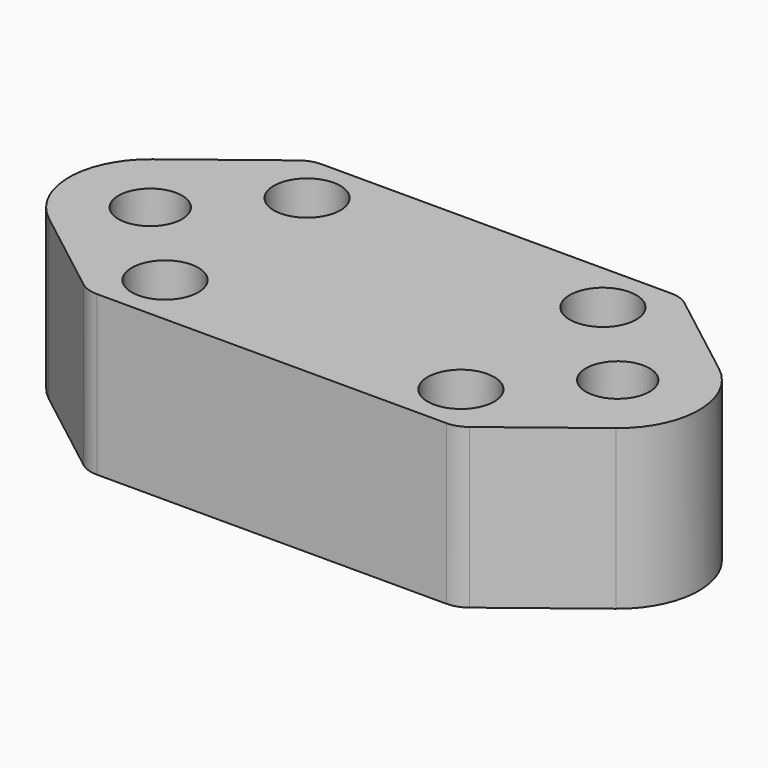
from build123d import *

# Parameters (mm, degrees)
SKETCH_R        = 2.8
SKETCH_R_2      = 4.3
PAD_DEPTH       = 21.5
SKETCH001_R     = 4.5
POCKET_DEPTH    = 6
SKETCH002_R     = 6.6
POCKET001_DEPTH = 9
FILLET_R        = 4


with BuildPart() as part:
    # Sketch → Pad (new body)
    with BuildSketch(Plane.XY):
        with BuildLine():
            Line((0, 0), (50, 0))
            Line((50, 0), (63.325334, 10.29541))
            ThreePointArc((63.325334, 10.29541), (67.6, 19), (63.325334, 27.70459))
            Line((50, 38), (63.325334, 27.70459))
            Line((50, 38), (0, 38))
            Line((0, 38), (-13.325334, 27.70459))
            ThreePointArc((-13.325334, 27.70459), (-17.6, 19), (-13.325334, 10.29541))
            Line((0, 0), (-13.325334, 10.29541))
        make_face()
        with Locations((5, 31)):
            Circle(SKETCH_R, mode=Mode.SUBTRACT)
        with Locations((45, 31)):
            Circle(SKETCH_R, mode=Mode.SUBTRACT)
        with Locations((45, 7)):
            Circle(SKETCH_R, mode=Mode.SUBTRACT)
        with Locations((5, 7)):
            Circle(SKETCH_R, mode=Mode.SUBTRACT)
        with Locations((-6.6, 19)):
            Circle(SKETCH_R_2, mode=Mode.SUBTRACT)
        with Locations((56.6, 19)):
            Circle(SKETCH_R_2, mode=Mode.SUBTRACT)
    extrude(amount=PAD_DEPTH)

    # Sketch001 (on Face16 of Pad) → Pocket (cut)
    with BuildSketch(Plane.XY.offset(21.5)):
        with Locations((5, 31)):
            Circle(SKETCH001_R)
        with Locations((45, 31)):
            Circle(SKETCH001_R)
        with Locations((45, 7)):
            Circle(SKETCH001_R)
        with Locations((5, 7)):
            Circle(SKETCH001_R)
    extrude(amount=-POCKET_DEPTH, mode=Mode.SUBTRACT)

    # Sketch002 (on Face4 of Pocket) → Pocket001 (cut)
    with BuildSketch(Plane(origin=(0, 0, 0), x_dir=(1, 0, 0), z_dir=(0, 0, -1))):
        with Locations((-6.6, -19)):
            Circle(SKETCH002_R)
        with Locations((56.6, -19)):
            Circle(SKETCH002_R)
    extrude(amount=-POCKET001_DEPTH, mode=Mode.SUBTRACT)

    # Fillet
    fillet_edges = [part.edges().sort_by_distance(p)[0] for p in [
        (0, 38, 10.75),
        (0, 0, 10.75),
        (50, 0, 10.75),
        (50, 38, 10.75),
    ]]
    fillet(fillet_edges, radius=FILLET_R)


solid = part.part
